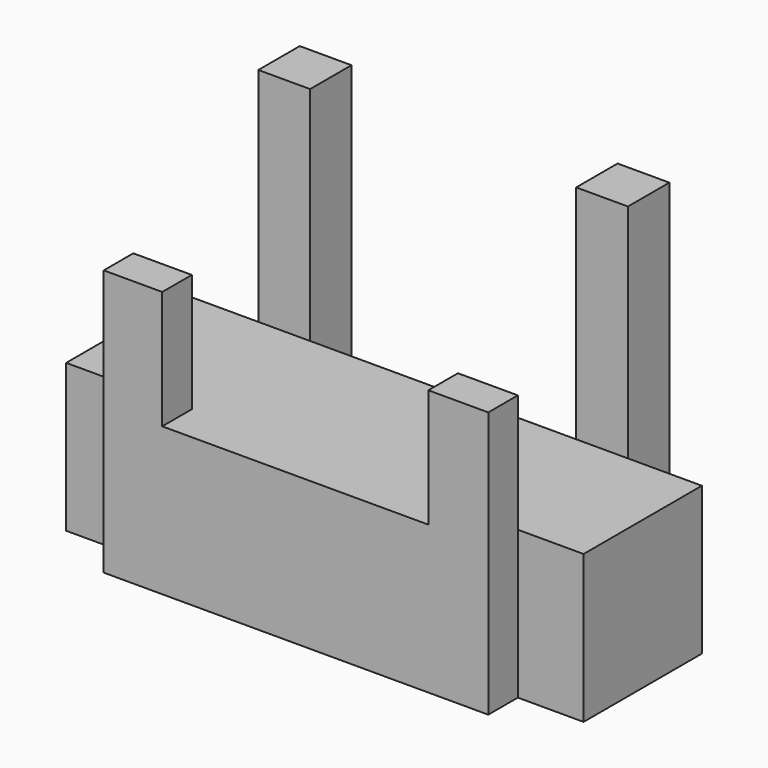
from build123d import *

# Parameters (mm, degrees)
F0_W      = 7
F0_H      = 7
F1_DEPTH  = 10
F2_W      = 7
F2_H      = 7
F3_DEPTH  = 30
F4_W      = 52.0183453336
F4_H      = 10
F5_DEPTH  = 5
F6_W      = 52.0183453336
F6_H      = 5
F7_DEPTH  = 16
F8_W      = 36
F8_H      = 16
F9_DEPTH  = 25
F10_DEPTH = 25
F11_DEPTH = 10


with BuildPart() as f1:
    # F0 (on Top) → F1 (new body)
    with BuildSketch(Plane.XY):
        Polygon((65.8497434995, 2.3738544621), (65.8497434995, 22.3738544621), (55.8497434995, 22.3738544621), (48.8497434995, 22.3738544621), (12.8497434995, 22.3738544621), (5.8497434995, 22.3738544621), (-4.1502565005, 22.3738544621), (-4.1502565005, 2.3738544621), align=None)
        with Locations((52.3497434995, 25.8738544621)):
            Rectangle(F0_W, F0_H)
        with Locations((9.3497434995, 25.8738544621)):
            Rectangle(F0_W, F0_H)
    extrude(amount=F1_DEPTH)

    # F2 (on face) → F3 (join)
    with BuildSketch(Plane.XY.offset(10)):
        with Locations((9.3497434995, 25.8738544621)):
            Rectangle(F2_W, F2_H)
        with Locations((52.3497434995, 25.8738544621)):
            Rectangle(F2_W, F2_H)
    extrude(amount=F3_DEPTH)

    # F4 (on face) → F5 (join)
    with BuildSketch(Plane.XZ.offset(-2.3738544621)):
        with Locations((30.9461015277, 5)):
            Rectangle(F4_W, F4_H)
    extrude(amount=F5_DEPTH)

    # F6 (on face) → F7 (join)
    with BuildSketch(Plane.XY.offset(10)):
        with Locations((30.9461015277, -0.1261455379)):
            Rectangle(F6_W, F6_H)
    extrude(amount=F7_DEPTH)

    # F8 (on face) → F9 (cut)
    with BuildSketch(Plane.XZ.offset(2.6261455379)):
        with Locations((30.8497434995, 18)):
            Rectangle(F8_W, F8_H)
    extrude(amount=-F9_DEPTH, mode=Mode.SUBTRACT)

    # F8 (on face) → F10 (cut)
    with BuildSketch(Plane.XZ.offset(2.6261455379)):
        with Locations((30.8497434995, 18)):
            Rectangle(F8_W, F8_H)
    extrude(amount=-F10_DEPTH, mode=Mode.SUBTRACT)

    # F11 (add): a face of the model
    f11_faces = [f1.faces().sort_by_distance(p)[0] for p in [
        (30.8639986862, 11.2771275086, 0),
    ]]
    extrude(f11_faces, amount=F11_DEPTH)


solid = f1.part
